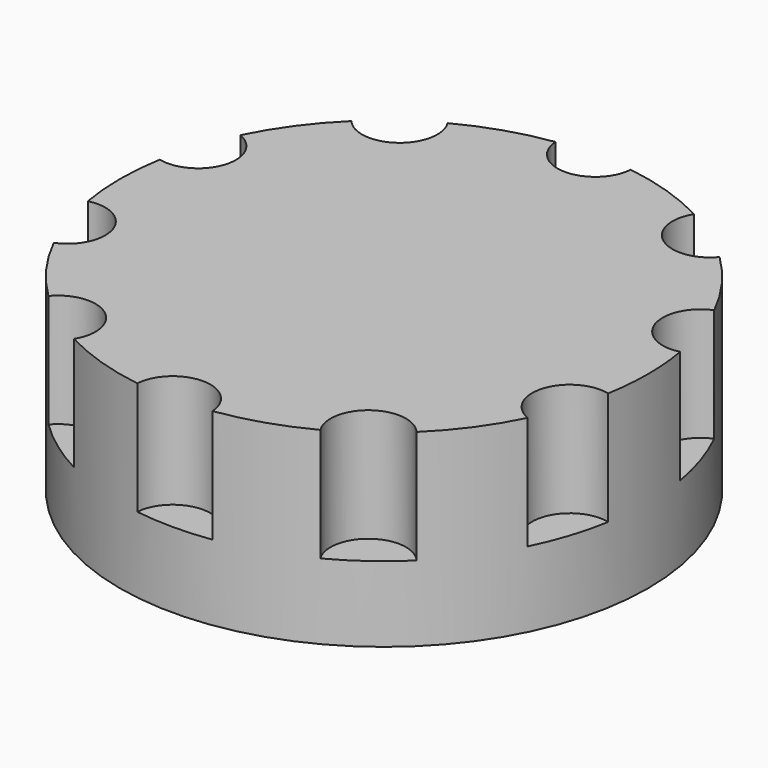
from build123d import *

# Parameters (mm, degrees)
F0_R     = 7
F1_DEPTH = 5
F3_DEPTH = 3


with BuildPart() as f1:
    # F0 (on Top) → F1 (new body)
    with BuildSketch(Plane.XY):
        Circle(F0_R)
    extrude(amount=F1_DEPTH)

    # F2 (on face) → F3 (cut)
    with BuildSketch(Plane.XY.offset(5)):
        with BuildLine():
            ThreePointArc((0.9974457174, 6.9285714286), (0, 7), (-0.9974457174, 6.9285714286))
            ThreePointArc((-0.9974457174, 6.9285714286), (0, 6), (0.9974457174, 6.9285714286))
        make_face()
        with BuildLine():
            ThreePointArc((4.8794626415, 5.0190481498), (4.114496766, 5.6631189606), (3.2655615688, 6.1916159151))
            ThreePointArc((3.2655615688, 6.1916159151), (3.5267115138, 4.8541019662), (4.8794626415, 5.0190481498))
        make_face()
        with BuildLine():
            ThreePointArc((6.8976906834, 1.192419069), (6.6573956141, 2.1631189606), (6.2812353281, 3.0896735674))
            ThreePointArc((6.2812353281, 3.0896735674), (5.7063390978, 1.8541019662), (6.8976906834, 1.192419069))
        make_face()
        with BuildLine():
            ThreePointArc((6.2812353281, -3.0896735674), (6.6573956141, -2.1631189606), (6.8976906834, -1.192419069))
            ThreePointArc((6.8976906834, -1.192419069), (5.7063390978, -1.8541019662), (6.2812353281, -3.0896735674))
        make_face()
        with BuildLine():
            ThreePointArc((3.2655615688, -6.1916159151), (4.114496766, -5.6631189606), (4.8794626415, -5.0190481498))
            ThreePointArc((4.8794626415, -5.0190481498), (3.5267115138, -4.8541019662), (3.2655615688, -6.1916159151))
        make_face()
        with BuildLine():
            ThreePointArc((0.9974457174, -6.9285714286), (0, -6), (-0.9974457174, -6.9285714286))
            ThreePointArc((-0.9974457174, -6.9285714286), (0, -7), (0.9974457174, -6.9285714286))
        make_face()
        with BuildLine():
            ThreePointArc((-3.2655615688, -6.1916159151), (-3.5267115138, -4.8541019662), (-4.8794626415, -5.0190481498))
            ThreePointArc((-4.8794626415, -5.0190481498), (-4.114496766, -5.6631189606), (-3.2655615688, -6.1916159151))
        make_face()
        with BuildLine():
            ThreePointArc((-6.2812353281, -3.0896735674), (-5.7063390978, -1.8541019662), (-6.8976906834, -1.192419069))
            ThreePointArc((-6.8976906834, -1.192419069), (-6.6573956141, -2.1631189606), (-6.2812353281, -3.0896735674))
        make_face()
        with BuildLine():
            ThreePointArc((-6.8976906834, 1.192419069), (-5.7063390978, 1.8541019662), (-6.2812353281, 3.0896735674))
            ThreePointArc((-6.2812353281, 3.0896735674), (-6.6573956141, 2.1631189606), (-6.8976906834, 1.192419069))
        make_face()
        with BuildLine():
            ThreePointArc((-4.8794626415, 5.0190481498), (-3.5267115138, 4.8541019662), (-3.2655615688, 6.1916159151))
            ThreePointArc((-3.2655615688, 6.1916159151), (-4.114496766, 5.6631189606), (-4.8794626415, 5.0190481498))
        make_face()
    extrude(amount=-F3_DEPTH, mode=Mode.SUBTRACT)


solid = f1.part
